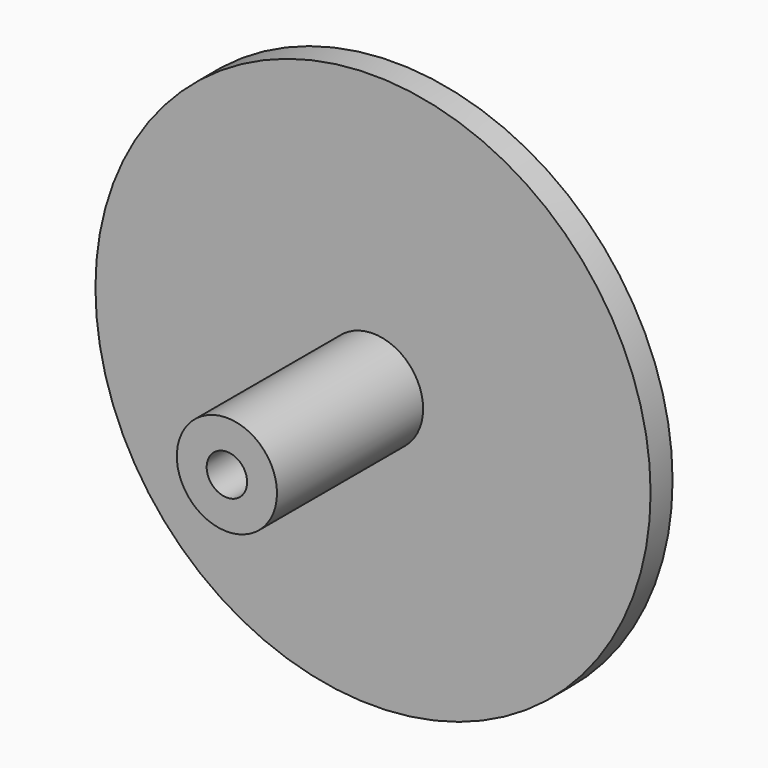
from build123d import *

# Parameters (mm, degrees)
F0_R     = 51.347904
F1_DEPTH = 5.08
F2_R     = 9.265386
F3_DEPTH = 38.862
F4_R     = 3.740808
F5_DEPTH = 28.702


with BuildPart() as f1:
    # F0 (on Front) → F1 (new body)
    with BuildSketch(Plane.XZ):
        Circle(F0_R)
    extrude(amount=F1_DEPTH)

    # F2 (on Front) → F3 (join)
    with BuildSketch(Plane.XZ):
        Circle(F2_R)
    extrude(amount=F3_DEPTH)

    # F4 (on face) → F5 (cut)
    with BuildSketch(Plane.XZ.offset(38.862)):
        Circle(F4_R)
    extrude(amount=-F5_DEPTH, mode=Mode.SUBTRACT)


solid = f1.part
